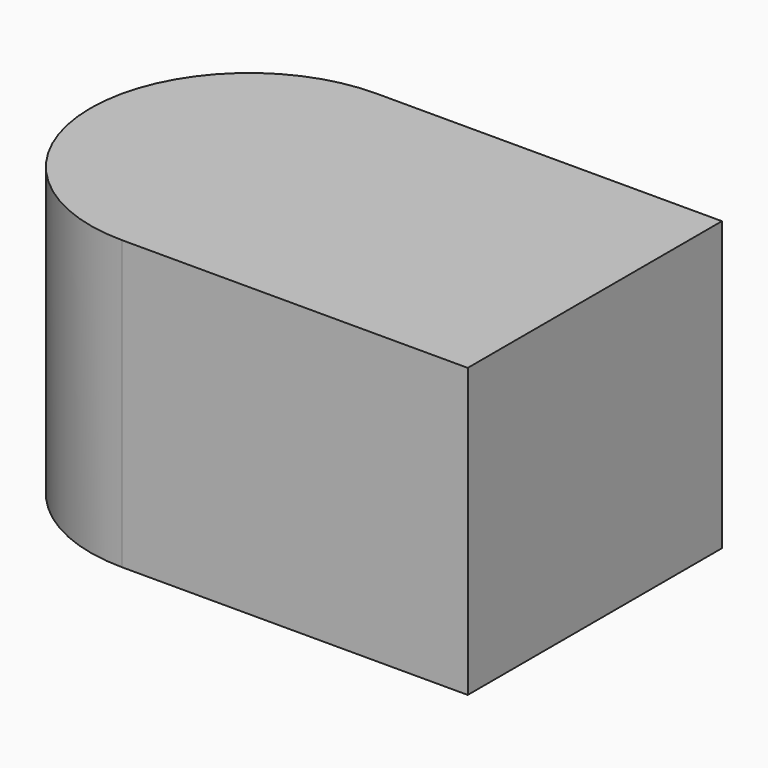
from build123d import *

# Parameters (mm, degrees)
F1_DEPTH = 25


with BuildPart() as f1:
    # F0 (on Top) → F1 (new body)
    with BuildSketch(Plane.XY):
        with BuildLine():
            Line((-15, -13.791991263), (15, -13.791991263))
            Line((15, -13.791991263), (15, 13.791991263))
            Line((15, 13.791991263), (-15, 13.791991263))
            ThreePointArc((-15, 13.791991263), (-5.2475894519, 9.7524105481), (-1.208008737, 0))
            ThreePointArc((-1.208008737, 0), (-5.2475894519, -9.7524105481), (-15, -13.791991263))
        make_face()
        with BuildLine():
            ThreePointArc((-15, 13.791991263), (-28.791991263, 0), (-15, -13.791991263))
            Line((-15, -13.791991263), (-15, 13.791991263))
        make_face()
        with BuildLine():
            Line((-15, 13.791991263), (-15, -13.791991263))
            ThreePointArc((-15, -13.791991263), (-5.2475894519, -9.7524105481), (-1.208008737, 0))
            ThreePointArc((-1.208008737, 0), (-5.2475894519, 9.7524105481), (-15, 13.791991263))
        make_face()
    extrude(amount=F1_DEPTH)


solid = f1.part
